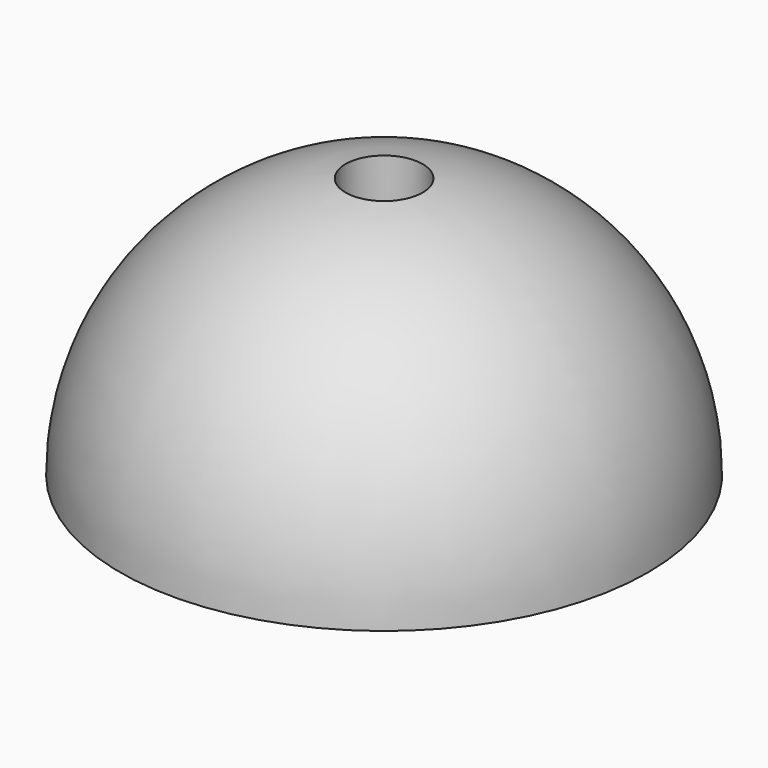
from build123d import *

# Parameters (mm, degrees)
F2_T     = -3
F3_R     = 2.192008
F4_DEPTH = 25


with BuildPart() as f1:
    # F0 (on Front) → F1 (revolve)
    with BuildSketch(Plane.XZ):
        with BuildLine():
            Line((0, 15), (0, 0))
            Line((0, 0), (15, 0))
            ThreePointArc((15, 0), (10.606602, 10.606602), (0, 15))
        make_face()
    revolve(axis=Axis((0, 0, 7.5), (0, 0, 1)))

    # F2
    f2_openings = [f1.faces().sort_by_distance(p)[0] for p in [
        (0, 0, 0),
    ]]
    offset(amount=F2_T, openings=f2_openings)

    # F3 (on Top) → F4 (cut)
    with BuildSketch(Plane.XY):
        Circle(F3_R)
    extrude(amount=F4_DEPTH, mode=Mode.SUBTRACT)


solid = f1.part
